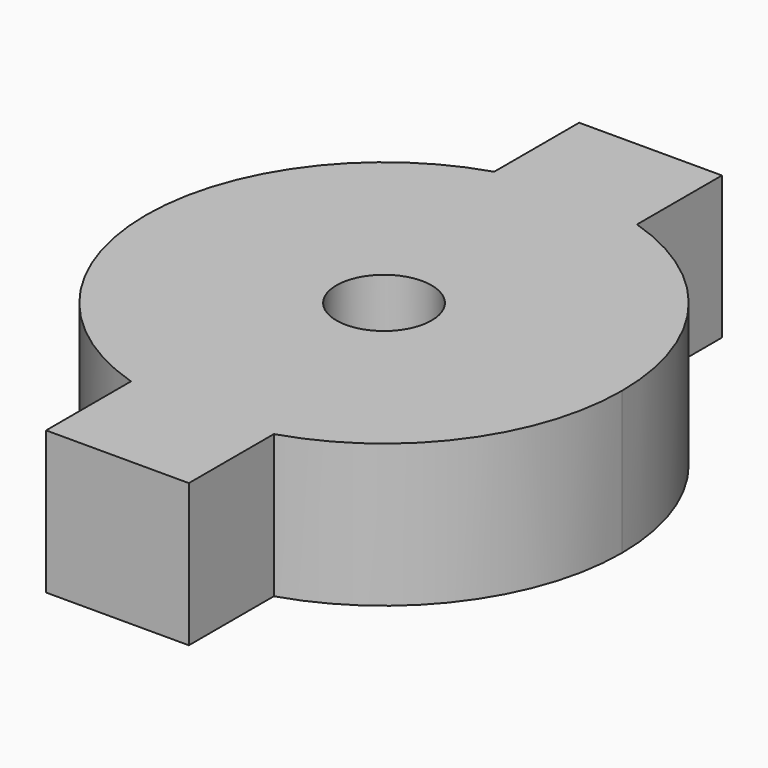
from build123d import *

# Parameters (mm, degrees)
F0_R     = 5
F1_DEPTH = 7.5


with BuildPart() as f1:
    # F0 (on Top) → F1 (new body, symmetric)
    with BuildSketch(Plane.XY):
        with BuildLine():
            ThreePointArc((7.5, -23.84848), (20.155644, -14.790199), (25, 0))
            ThreePointArc((25, 0), (20.155644, 14.790199), (7.5, 23.84848))
            ThreePointArc((7.5, 23.84848), (0, 25), (-7.5, 23.84848))
            ThreePointArc((-7.5, 23.84848), (-25, 0), (-7.5, -23.84848))
            ThreePointArc((-7.5, -23.84848), (0, -25), (7.5, -23.84848))
        make_face()
        Circle(F0_R, mode=Mode.SUBTRACT)
        with BuildLine():
            ThreePointArc((-7.5, 23.84848), (0, 25), (7.5, 23.84848))
            Line((7.5, 23.84848), (7.5, 35))
            Line((7.5, 35), (-7.5, 35))
            Line((-7.5, 35), (-7.5, 23.84848))
        make_face()
        with BuildLine():
            Line((7.5, -35), (7.5, -23.84848))
            ThreePointArc((7.5, -23.84848), (0, -25), (-7.5, -23.84848))
            Line((-7.5, -23.84848), (-7.5, -35))
            Line((-7.5, -35), (7.5, -35))
        make_face()
    extrude(amount=F1_DEPTH, both=True)


solid = f1.part
